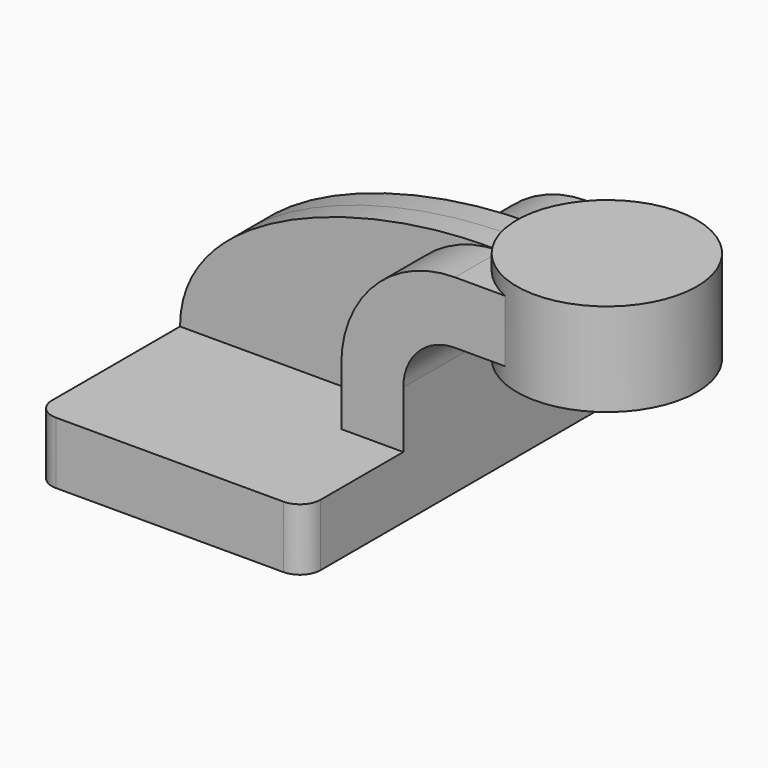
from build123d import *

# Parameters (mm, degrees)
F1_DEPTH = 63.5
F2_DEPTH = 25.4
F0_W     = 23.1578589316
F0_H     = 19.05
F3_DEPTH = 25.4
F4_DEPTH = 7.9375
F6_R     = 6.35


with BuildPart() as f1:
    # F0 (on Front) → F1 (new body, symmetric)
    with BuildSketch(Plane.XZ):
        Polygon((-41.275, 9.525), (-41.275, -9.525), (41.275, -9.525), (41.275, 9.525), (22.225, 9.525), align=None)
    extrude(amount=F1_DEPTH, both=True)

    # F0 (on Front) → F2 (join, symmetric)
    with BuildSketch(Plane.XZ):
        with BuildLine():
            Line((22.225, 9.525), (41.275, 9.525))
            Line((41.275, 9.525), (41.275, 27.0002))
            ThreePointArc((41.275, 27.0002), (45.9246798487, 38.2255201513), (57.15, 42.8752))
            Line((57.15, 42.8752), (60.325, 42.8752))
            Line((60.325, 42.8752), (60.325, 61.9252))
            Line((60.325, 61.9252), (57.15, 61.9252))
            ThreePointArc((57.15, 61.9252), (32.4542956671, 51.6959043329), (22.225, 27.0002))
            Line((22.225, 27.0002), (22.225, 9.525))
        make_face()
    extrude(amount=F2_DEPTH, both=True)

    # F0 (on Front) → F3 (join, symmetric)
    with BuildSketch(Plane.XZ):
        with Locations((71.9039294658, 52.4002)):
            Rectangle(F0_W, F0_H)
    extrude(amount=F3_DEPTH, both=True)

    # F0 (on Front) → F4 (join, symmetric)
    with BuildSketch(Plane.XZ):
        with BuildLine():
            add(Edge.make_bspline(
                [(-41.275, 9.525), (-41.1813110113, 44.7291582823), (16.6801214218, 63.2801502943), (57.15, 61.9252)],
                knots=[0, 0, 0, 0, 111.5045361635, 111.5045361635, 111.5045361635, 111.5045361635], degree=3))
            Line((-41.275, 9.525), (22.225, 9.525))
            Line((22.225, 9.525), (22.225, 27.0002))
            ThreePointArc((22.225, 27.0002), (32.4542956671, 51.6959043329), (57.15, 61.9252))
        make_face()
    extrude(amount=F4_DEPTH, both=True)

    # F0 (on Front) → F5 (revolve)
    with BuildSketch(Plane.XZ):
        Polygon((83.4828589316, 66.675), (83.4828589316, 61.9252), (83.4828589316, 42.8752), (83.4828589316, 38.1), (111.125, 38.1), (111.125, 66.675), align=None)
    revolve(axis=Axis((83.4828589316, 0, 52.3875), (0, 0, -1)))

    # F6
    f6_edges = [f1.edges().sort_by_distance(p)[0] for p in [
        (-41.275, -63.5, 0),
        (41.275, -63.5, 0),
        (41.275, 63.5, 0),
        (-41.275, 63.5, 0),
    ]]
    fillet(f6_edges, radius=F6_R)


solid = f1.part
